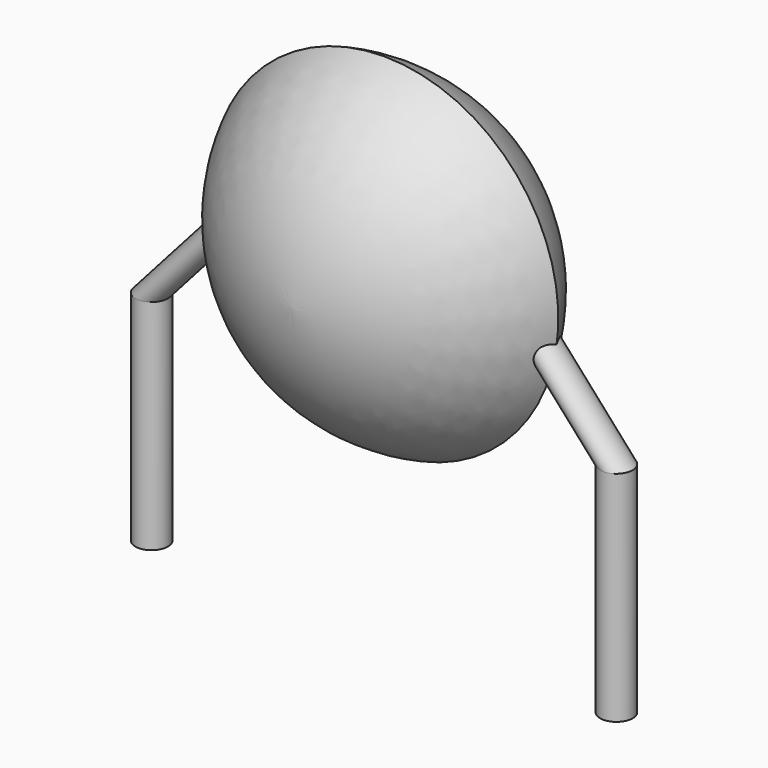
from build123d import *

# Parameters (mm, degrees)
SKETCH001_R       = 0.35
PAD001_DEPTH      = 1.5
PAD001_DEPTH_BACK = 3.2
SKETCH002_R       = 0.35
SKETCH003_R       = 0.35
SKETCH004_R       = 0.35
SKETCH005_R       = 0.35


with BuildPart() as pad001:
    # Sketch001 → Pad001 (new body, two sides)
    with BuildSketch(Plane.XY) as pad001_sk:
        Circle(SKETCH001_R)
        with Locations((10, 0)):
            Circle(SKETCH001_R)
    extrude(amount=PAD001_DEPTH)
    extrude(pad001_sk.sketch, amount=-PAD001_DEPTH_BACK)


with BuildPart() as revolution:
    # Sketch → Revolution (revolve)
    with BuildSketch(Plane.YZ.offset(5)):
        with BuildLine():
            Line((-2.5, 3.85), (2.5, 3.85))
            ThreePointArc((0, 0.1), (1.782098, 1.620268), (2.5, 3.85))
            ThreePointArc((-2.5, 3.85), (-1.782098, 1.620268), (0, 0.1))
        make_face()
    revolve(axis=Axis((5, -3.32079, 3.85), (0, 1, 0)))


with BuildPart() as loft_body:
    # Sketch002 → Loft section 0
    with BuildSketch(Plane.XY.offset(3.75)):
        with Locations((2, 0)):
            Circle(SKETCH002_R)
    # Sketch003 → Loft section 1
    with BuildSketch(Plane.XY.offset(1.5)):
        Circle(SKETCH003_R)
    loft()


with BuildPart() as loft001:
    # Sketch004 → Loft001 section 0
    with BuildSketch(Plane.XY.offset(1.5)):
        with Locations((10, 0)):
            Circle(SKETCH004_R)
    # Sketch005 → Loft001 section 1
    with BuildSketch(Plane.XY.offset(3.75)):
        with Locations((8, 0)):
            Circle(SKETCH005_R)
    loft()


solid = Compound([pad001.part, revolution.part, loft_body.part, loft001.part])
